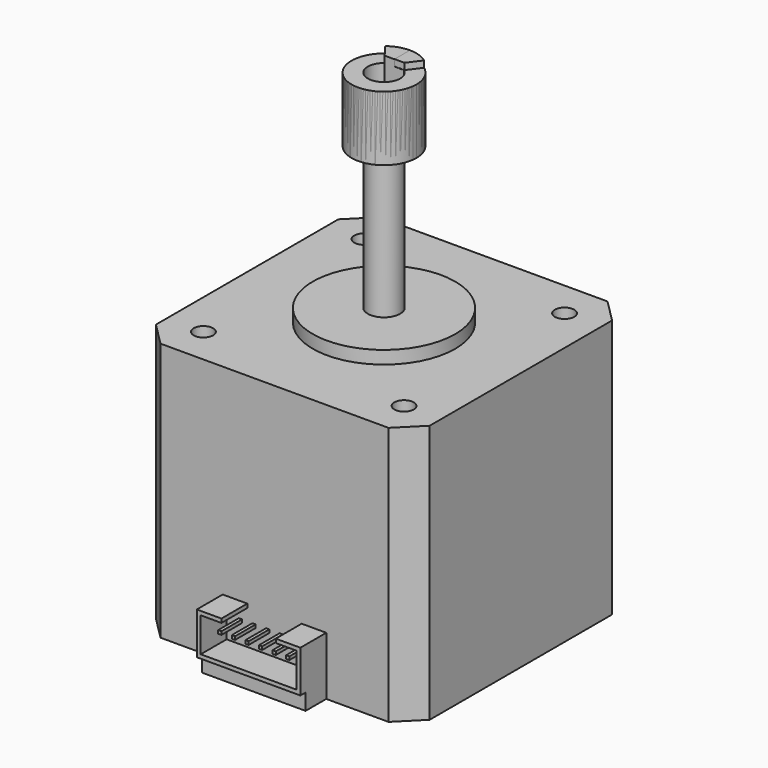
from build123d import *

# Parameters (mm, degrees)
PAD_DEPTH      = 40
SKETCH001_R    = 1.5
HOLE_DEPTH     = 4.5
HOLE_TIPS_R    = 1.5
SKETCH002_R    = 1.5
HOLE001_DEPTH  = 4.5
HOLE001_TIPS_R = 1.5
SKETCH003_R    = 11
PAD001_DEPTH   = 2
PAD002_DEPTH   = 22
SKETCH005_R    = 2.5
PAD003_DEPTH   = 3
SKETCH006_W    = 16
SKETCH006_H    = 4
PAD004_DEPTH   = 2.5
PAD005_DEPTH   = 5
SKETCH008_W    = 0.5
SKETCH008_H    = 0.5
PAD006_DEPTH   = 4
SKETCH009_R    = 5
PAD007_DEPTH   = 10
PAD011_DEPTH   = 1
SKETCH010_R    = 5
PAD008_DEPTH   = 10
PAD012_DEPTH   = 1
SKETCH011_R    = 5
PAD009_DEPTH   = 10
PAD010_DEPTH   = 1


with BuildPart() as motor:
    # Sketch → Pad (new body)
    with BuildSketch(Plane.XY):
        Polygon((-17.614466, 21.15), (17.614466, 21.15), (21.15, 17.614466), (21.15, -17.614466), (17.614466, -21.15), (-17.614466, -21.15), (-21.15, -17.614466), (-21.15, 17.614466), align=None)
    extrude(amount=PAD_DEPTH)

    # Sketch001 (on Face10 of Pad) → Hole (cut)
    with BuildSketch(Plane.XY.offset(40)):
        with Locations((15.5, 15.5)):
            Circle(SKETCH001_R)
        with Locations((-15.5, 15.5)):
            Circle(SKETCH001_R)
        with Locations((-15.5, -15.5)):
            Circle(SKETCH001_R)
        with Locations((15.5, -15.5)):
            Circle(SKETCH001_R)
    extrude(amount=-HOLE_DEPTH, mode=Mode.SUBTRACT)

    # Hole tips → Hole tip 1 section 0
    with BuildSketch(Plane.XY.offset(35.5), mode=Mode.PRIVATE) as hole_tip_1_s0:
        with Locations((15.5, 15.5)):
            Circle(HOLE_TIPS_R)
    loft([hole_tip_1_s0.sketch, Vertex(15.5, 15.5, 34.598709)], mode=Mode.SUBTRACT)

    # Hole tips → Hole tip 2 section 0
    with BuildSketch(Plane.XY.offset(35.5), mode=Mode.PRIVATE) as hole_tip_2_s0:
        with Locations((-15.5, 15.5)):
            Circle(HOLE_TIPS_R)
    loft([hole_tip_2_s0.sketch, Vertex(-15.5, 15.5, 34.598709)], mode=Mode.SUBTRACT)

    # Hole tips → Hole tip 3 section 0
    with BuildSketch(Plane.XY.offset(35.5), mode=Mode.PRIVATE) as hole_tip_3_s0:
        with Locations((-15.5, -15.5)):
            Circle(HOLE_TIPS_R)
    loft([hole_tip_3_s0.sketch, Vertex(-15.5, -15.5, 34.598709)], mode=Mode.SUBTRACT)

    # Hole tips → Hole tip 4 section 0
    with BuildSketch(Plane.XY.offset(35.5), mode=Mode.PRIVATE) as hole_tip_4_s0:
        with Locations((15.5, -15.5)):
            Circle(HOLE_TIPS_R)
    loft([hole_tip_4_s0.sketch, Vertex(15.5, -15.5, 34.598709)], mode=Mode.SUBTRACT)

    # Sketch002 → Hole001 (cut)
    with BuildSketch(Plane.XY):
        with Locations((-15.5, 15.5)):
            Circle(SKETCH002_R)
        with Locations((-15.5, -15.5)):
            Circle(SKETCH002_R)
        with Locations((15.5, -15.5)):
            Circle(SKETCH002_R)
        with Locations((15.5, 15.5)):
            Circle(SKETCH002_R)
    extrude(amount=HOLE001_DEPTH, mode=Mode.SUBTRACT)

    # Hole001 tips → Hole001 tip 1 section 0
    with BuildSketch(Plane.XY.offset(4.5), mode=Mode.PRIVATE) as hole001_tip_1_s0:
        with Locations((-15.5, 15.5)):
            Circle(HOLE001_TIPS_R)
    loft([hole001_tip_1_s0.sketch, Vertex(-15.5, 15.5, 5.401291)], mode=Mode.SUBTRACT)

    # Hole001 tips → Hole001 tip 2 section 0
    with BuildSketch(Plane.XY.offset(4.5), mode=Mode.PRIVATE) as hole001_tip_2_s0:
        with Locations((-15.5, -15.5)):
            Circle(HOLE001_TIPS_R)
    loft([hole001_tip_2_s0.sketch, Vertex(-15.5, -15.5, 5.401291)], mode=Mode.SUBTRACT)

    # Hole001 tips → Hole001 tip 3 section 0
    with BuildSketch(Plane.XY.offset(4.5), mode=Mode.PRIVATE) as hole001_tip_3_s0:
        with Locations((15.5, -15.5)):
            Circle(HOLE001_TIPS_R)
    loft([hole001_tip_3_s0.sketch, Vertex(15.5, -15.5, 5.401291)], mode=Mode.SUBTRACT)

    # Hole001 tips → Hole001 tip 4 section 0
    with BuildSketch(Plane.XY.offset(4.5), mode=Mode.PRIVATE) as hole001_tip_4_s0:
        with Locations((15.5, 15.5)):
            Circle(HOLE001_TIPS_R)
    loft([hole001_tip_4_s0.sketch, Vertex(15.5, 15.5, 5.401291)], mode=Mode.SUBTRACT)

    # Sketch003 (on Face5 of Hole001) → Pad001 (join)
    with BuildSketch(Plane.XY.offset(40)):
        Circle(SKETCH003_R)
    extrude(amount=PAD001_DEPTH)

    # Sketch004 (on Face27 of Pad001) → Pad002 (join)
    with BuildSketch(Plane.XY.offset(42)):
        with BuildLine():
            ThreePointArc((-1.5, 2), (0, -2.5), (1.5, 2))
            Line((-1.5, 2), (1.5, 2))
        make_face()
    extrude(amount=PAD002_DEPTH)

    # Sketch005 (on Face27 of Pad001) → Pad003 (join)
    with BuildSketch(Plane.XY.offset(42)):
        Circle(SKETCH005_R)
    extrude(amount=PAD003_DEPTH)

    # Sketch006 (on Face4 of Pad003) → Pad004 (join)
    with BuildSketch(Plane(origin=(0, 0, 0), x_dir=(1, 0, 0), z_dir=(0, 0, -1))):
        with Locations((0, 23.15)):
            Rectangle(SKETCH006_W, SKETCH006_H)
    extrude(amount=-PAD004_DEPTH)

    # Sketch007 (on Face10 of Pad004) → Pad005 (join)
    with BuildSketch(Plane.XZ.offset(21.15)):
        Polygon((-4.2, 9), (-8, 9), (-8, 2.5), (8, 2.5), (8, 9), (4.2, 9), (4.2, 8.4), (7.4, 8.4), (7.4, 3.1), (-7.4, 3.1), (-7.4, 8.4), (-4.2, 8.4), align=None)
    extrude(amount=PAD005_DEPTH)

    # Sketch008 (on Face10 of Pad005) → Pad006 (join)
    with BuildSketch(Plane.XZ.offset(21.15)):
        with Locations((-5.25, 6.35)):
            Rectangle(SKETCH008_W, SKETCH008_H)
        with Locations((-3.15, 6.35)):
            Rectangle(SKETCH008_W, SKETCH008_H)
        with Locations((-1.05, 6.35)):
            Rectangle(SKETCH008_W, SKETCH008_H)
        with Locations((1.05, 6.35)):
            Rectangle(SKETCH008_W, SKETCH008_H)
        with Locations((3.15, 6.35)):
            Rectangle(SKETCH008_W, SKETCH008_H)
        with Locations((5.25, 6.35)):
            Rectangle(SKETCH008_W, SKETCH008_H)
    extrude(amount=PAD006_DEPTH)


with BuildPart() as fitting_5_25mm:
    # Sketch009 (on Face1 of Binder) → Pad007 (new body)
    with BuildSketch(Plane.XY.offset(64)):
        Circle(SKETCH009_R)
        with BuildLine():
            ThreePointArc((-1.575, 2.1), (0, -2.625), (1.575, 2.1))
            Line((-1.575, 2.1), (1.575, 2.1))
        make_face(mode=Mode.SUBTRACT)
    extrude(amount=PAD007_DEPTH)

    # Sketch013 (on Face5 of Pad007) → Pad011 (join)
    with BuildSketch(Plane.XY.offset(74)):
        with BuildLine():
            ThreePointArc((3, 4), (1.581139, 4.743416), (0, 5))
            Line((0, 2.1), (0, 5))
            Line((1.575, 2.1), (0, 2.1))
            Line((1.575, 2.1), (3, 4))
        make_face()
    extrude(amount=PAD011_DEPTH)


with BuildPart() as fitting_5_1mm:
    # Sketch010 (on Face1 of Binder001) → Pad008 (new body)
    with BuildSketch(Plane.XY.offset(64)):
        Circle(SKETCH010_R)
        with BuildLine():
            ThreePointArc((-1.53, 2.04), (0, -2.55), (1.53, 2.04))
            Line((-1.53, 2.04), (1.53, 2.04))
        make_face(mode=Mode.SUBTRACT)
    extrude(amount=PAD008_DEPTH)

    # Sketch014 (on Face5 of Pad008) → Pad012 (join)
    with BuildSketch(Plane.XY.offset(74)):
        with BuildLine():
            ThreePointArc((3, 4), (0, 5), (-3, 4))
            Line((-1.53, 2.04), (-3, 4))
            Line((-1.53, 2.04), (1.53, 2.04))
            Line((1.53, 2.04), (3, 4))
        make_face()
    extrude(amount=PAD012_DEPTH)


with BuildPart() as fitting_5_0mm:
    # Sketch011 (on Face1 of Binder002) → Pad009 (new body)
    with BuildSketch(Plane.XY.offset(64)):
        Circle(SKETCH011_R)
        with BuildLine():
            ThreePointArc((-1.5, 2), (0, -2.5), (1.5, 2))
            Line((-1.5, 2), (1.5, 2))
        make_face(mode=Mode.SUBTRACT)
    extrude(amount=PAD009_DEPTH)

    # Sketch012 (on Face5 of Pad009) → Pad010 (join)
    with BuildSketch(Plane.XY.offset(74)):
        with BuildLine():
            ThreePointArc((0, 5), (-1.581139, 4.743416), (-3, 4))
            Line((-1.5, 2), (-3, 4))
            Line((0, 2), (-1.5, 2))
            Line((0, 5), (0, 2))
        make_face()
    extrude(amount=PAD010_DEPTH)


solid = Compound([motor.part, fitting_5_25mm.part, fitting_5_1mm.part, fitting_5_0mm.part])
